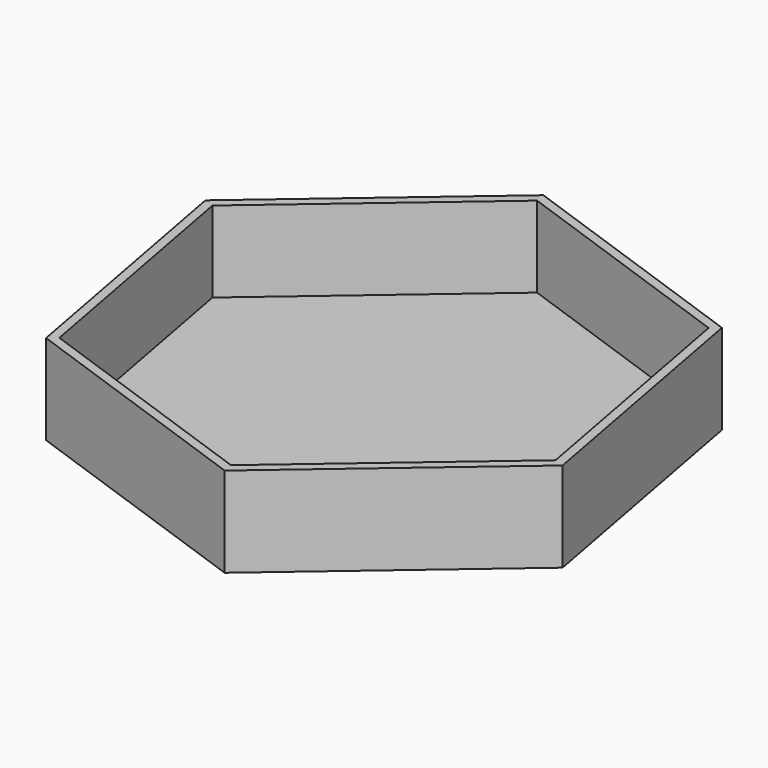
from build123d import *

# Parameters (mm, degrees)
F2_DEPTH = 25.4
F3_T     = -2.54


with BuildPart() as f2:
    # F1 (on face) → F2 (new body)
    with BuildSketch(Plane.XY):
        Polygon((-13.636127, 73.258446), (-70.261739, 24.819991), (-56.625612, -48.438456), (13.636127, -73.258446), (70.261739, -24.819991), (56.625612, 48.438456), align=None)
    extrude(amount=F2_DEPTH)

    # F3
    f3_openings = [f2.faces().sort_by_distance(p)[0] for p in [
        (0, 0, 25.4),
    ]]
    offset(amount=F3_T, openings=f3_openings)


solid = f2.part
